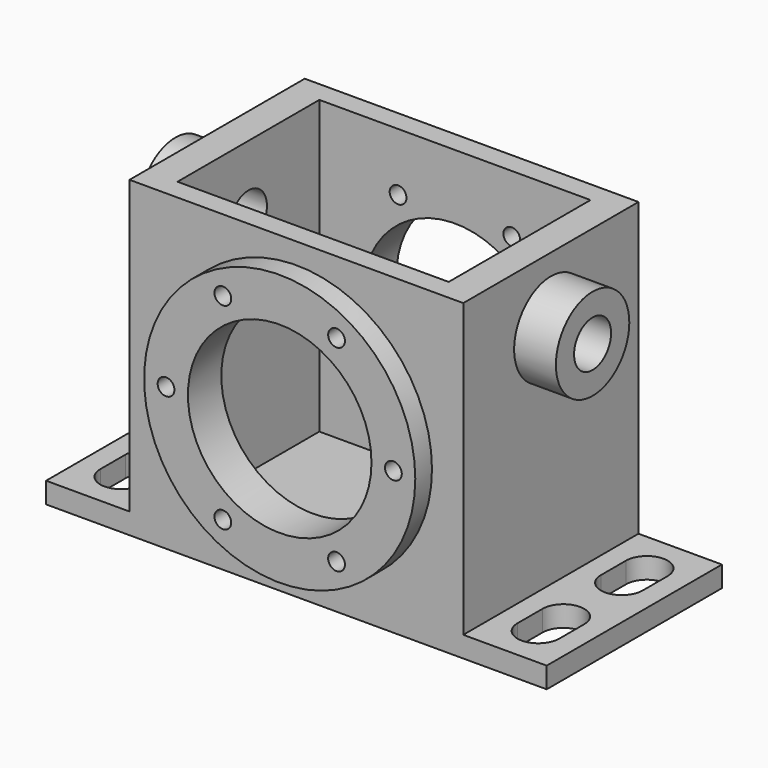
from build123d import *

# Parameters (mm, degrees)
F0_W      = 152.4
F0_H      = 66.675
F1_DEPTH  = 6.35
F3_DEPTH  = 6.351
F5_DEPTH  = 6.351
F7_DEPTH  = 6.351
F9_DEPTH  = 6.351
F10_W     = 101.6
F10_H     = 66.675
F11_DEPTH = 88.9
F12_W     = 82.55
F12_H     = 53.975
F13_DEPTH = 88.9
F14_R     = 41.275
F15_DEPTH = 6.35
F17_R     = 41.275
F18_DEPTH = 6.35
F19_R     = 2.5527
F20_DEPTH = 79.376
F16_R     = 27.94
F21_DEPTH = 79.376
F22_R     = 13.97
F23_DEPTH = 12.7
F24_R     = 7.0485
F25_DEPTH = 22.2504
F26_R     = 13.97
F27_DEPTH = 12.7
F28_R     = 7.0485
F29_DEPTH = 22.2504


with BuildPart() as f1:
    # F0 (on Top) → F1 (new body)
    with BuildSketch(Plane.XY):
        with Locations((76.2, 33.3375)):
            Rectangle(F0_W, F0_H)
    extrude(amount=F1_DEPTH)

    # F2 (on face) → F3 (cut, through all)
    with BuildSketch(Plane.XY.offset(6.35)):
        with BuildLine():
            Line((146.05, 44.45), (146.05, 53.975))
            ThreePointArc((146.05, 53.975), (139.7, 60.325), (133.35, 53.975))
            Line((133.35, 53.975), (133.35, 44.45))
            Line((133.35, 44.45), (146.05, 44.45))
        make_face()
        with BuildLine():
            ThreePointArc((133.35, 44.45), (139.7, 38.1), (146.05, 44.45))
            Line((146.05, 44.45), (133.35, 44.45))
        make_face()
    extrude(amount=-F3_DEPTH, mode=Mode.SUBTRACT)

    # F4 (on face) → F5 (cut, through all)
    with BuildSketch(Plane.XY.offset(6.35)):
        with BuildLine():
            Line((133.35, 12.7), (139.7, 12.7))
            Line((139.7, 12.7), (146.05, 12.7))
            Line((146.05, 12.7), (146.05, 22.225))
            ThreePointArc((146.05, 22.225), (139.7, 28.575), (133.35, 22.225))
            Line((133.35, 22.225), (133.35, 12.7))
        make_face()
        with BuildLine():
            Line((146.05, 12.7), (139.7, 12.7))
            Line((139.7, 12.7), (133.35, 12.7))
            ThreePointArc((133.35, 12.7), (139.7, 6.35), (146.05, 12.7))
        make_face()
    extrude(amount=-F5_DEPTH, mode=Mode.SUBTRACT)

    # F6 (on face) → F7 (cut, through all)
    with BuildSketch(Plane.XY.offset(6.35)):
        with BuildLine():
            Line((6.35, 53.975), (12.7, 53.975))
            Line((12.7, 53.975), (19.05, 53.975))
            ThreePointArc((19.05, 53.975), (12.7, 60.325), (6.35, 53.975))
        make_face()
        with BuildLine():
            Line((19.05, 53.975), (12.7, 53.975))
            Line((12.7, 53.975), (6.35, 53.975))
            Line((6.35, 53.975), (6.35, 44.45))
            ThreePointArc((6.35, 44.45), (12.7, 38.1), (19.05, 44.45))
            Line((19.05, 44.45), (19.05, 53.975))
        make_face()
    extrude(amount=-F7_DEPTH, mode=Mode.SUBTRACT)

    # F8 (on face) → F9 (cut, through all)
    with BuildSketch(Plane.XY.offset(6.35)):
        with BuildLine():
            Line((6.35, 12.7), (12.7, 12.7))
            Line((12.7, 12.7), (19.05, 12.7))
            Line((19.05, 12.7), (19.05, 22.225))
            ThreePointArc((19.05, 22.225), (12.7, 28.575), (6.35, 22.225))
            Line((6.35, 22.225), (6.35, 12.7))
        make_face()
        with BuildLine():
            Line((19.05, 12.7), (12.7, 12.7))
            Line((12.7, 12.7), (6.35, 12.7))
            ThreePointArc((6.35, 12.7), (12.7, 6.35), (19.05, 12.7))
        make_face()
    extrude(amount=-F9_DEPTH, mode=Mode.SUBTRACT)

    # F10 (on face) → F11 (join)
    with BuildSketch(Plane.XY.offset(6.35)):
        with Locations((76.2, 33.3375)):
            Rectangle(F10_W, F10_H)
    extrude(amount=F11_DEPTH)

    # F12 (on face) → F13 (cut)
    with BuildSketch(Plane.XY.offset(95.25)):
        with Locations((76.2, 33.3375)):
            Rectangle(F12_W, F12_H)
    extrude(amount=-F13_DEPTH, mode=Mode.SUBTRACT)

    # F14 (on face) → F15 (join)
    with BuildSketch(Plane.XZ):
        with Locations((76.2, 47.625)):
            Circle(F14_R)
    extrude(amount=F15_DEPTH)

    # F17 (on face) → F18 (join)
    with BuildSketch(Plane(origin=(0, 66.675, 0), x_dir=(-1, 0, 0), z_dir=(0, 1, 0))):
        with Locations((-76.2, 47.625)):
            Circle(F17_R)
    extrude(amount=F18_DEPTH)

    # F19 (on face) → F20 (cut, through all)
    with BuildSketch(Plane(origin=(0, 73.025, 0), x_dir=(-1, 0, 0), z_dir=(0, 1, 0))):
        with Locations((-93.50375, 77.595974)):
            Circle(F19_R)
        with Locations((-93.50375, 17.654026)):
            Circle(F19_R)
        with Locations((-110.8075, 47.625)):
            Circle(F19_R)
        with Locations((-58.89625, 17.654026)):
            Circle(F19_R)
        with Locations((-41.5925, 47.625)):
            Circle(F19_R)
        with Locations((-58.89625, 77.595974)):
            Circle(F19_R)
    extrude(amount=-F20_DEPTH, mode=Mode.SUBTRACT)

    # F16 (on face) → F21 (cut, through all)
    with BuildSketch(Plane.XZ.offset(6.35)):
        with Locations((76.2, 47.625)):
            Circle(F16_R)
    extrude(amount=-F21_DEPTH, mode=Mode.SUBTRACT)

    # F22 (on face) → F23 (join)
    with BuildSketch(Plane(origin=(25.4, 0, 0), x_dir=(0, -1, 0), z_dir=(-1, 0, 0))):
        with Locations((-33.3375, 74.93)):
            Circle(F22_R)
    extrude(amount=F23_DEPTH)

    # F24 (on face) → F25 (cut)
    with BuildSketch(Plane(origin=(12.7, 0, 0), x_dir=(0, -1, 0), z_dir=(-1, 0, 0))):
        with Locations((-33.3375, 74.93)):
            Circle(F24_R)
    extrude(amount=-F25_DEPTH, mode=Mode.SUBTRACT)

    # F26 (on face) → F27 (join)
    with BuildSketch(Plane.YZ.offset(127)):
        with Locations((33.3375, 74.93)):
            Circle(F26_R)
    extrude(amount=F27_DEPTH)

    # F28 (on face) → F29 (cut)
    with BuildSketch(Plane.YZ.offset(139.7)):
        with Locations((33.3375, 74.93)):
            Circle(F28_R)
    extrude(amount=-F29_DEPTH, mode=Mode.SUBTRACT)


solid = f1.part
